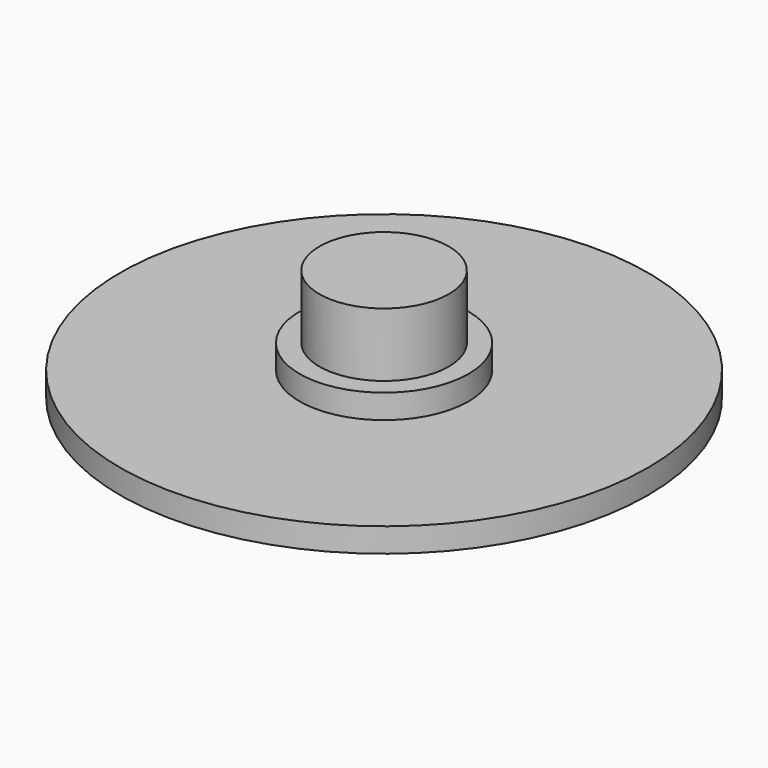
from build123d import *

# Parameters (mm, degrees)
F0_R     = 12.192
F0_R_2   = 9.3345
F1_DEPTH = 3.4925
F2_DEPTH = 12.7
F0_R_3   = 38.1
F3_DEPTH = 3.4925


with BuildPart() as f1:
    # F0 (on Top) → F1 (new body)
    with BuildSketch(Plane.XY):
        Circle(F0_R)
        Circle(F0_R_2, mode=Mode.SUBTRACT)
    extrude(amount=F1_DEPTH)

    # F0 (on Top) → F2 (join)
    with BuildSketch(Plane.XY):
        Circle(F0_R_2)
    extrude(amount=F2_DEPTH)

    # F0 (on Top) → F3 (join)
    with BuildSketch(Plane.XY):
        Circle(F0_R_3)
        Circle(F0_R, mode=Mode.SUBTRACT)
        Circle(F0_R)
        Circle(F0_R_2, mode=Mode.SUBTRACT)
        Circle(F0_R_2)
    extrude(amount=-F3_DEPTH)


solid = f1.part
